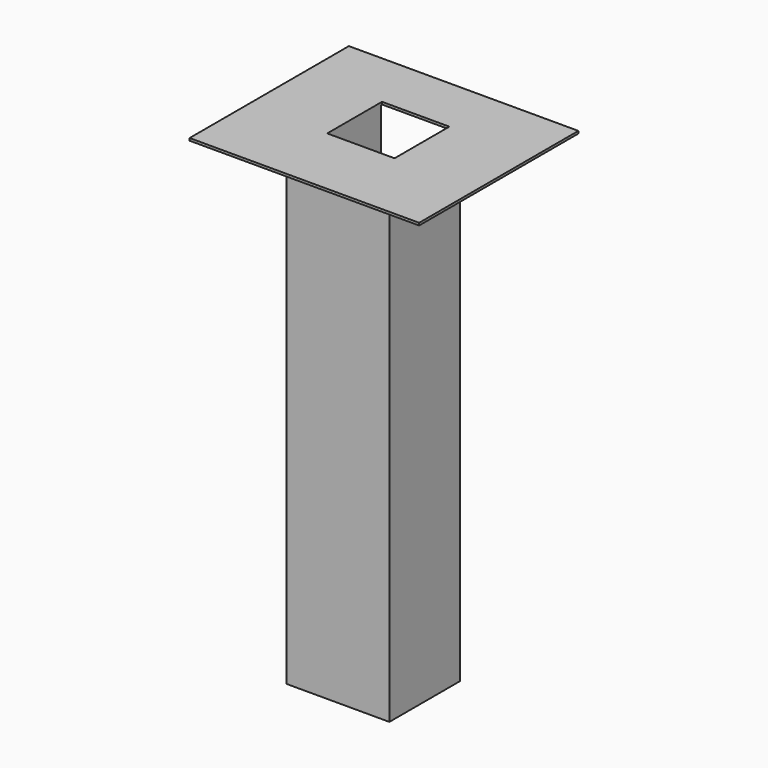
from build123d import *

# Parameters (mm, degrees)
F0_W     = 54.369731
F0_H     = 46.646759
F2_DEPTH = 254
F1_W     = 121.096216
F1_H     = 105.032436
F3_DEPTH = 1.27
F4_W     = 35.525674
F4_H     = 36.143513
F5_DEPTH = 127


with BuildPart() as f2:
    # F0 (on Top) → F2 (new body)
    with BuildSketch(Plane.XY):
        with Locations((-1.544595, -0.463377)):
            Rectangle(F0_W, F0_H)
    extrude(amount=-F2_DEPTH)

    # F1 (on Top) → F3 (join)
    with BuildSketch(Plane.XY):
        with Locations((2.78027, 1.235675)):
            Rectangle(F1_W, F1_H)
    extrude(amount=F3_DEPTH)

    # F4 (on face) → F5 (cut)
    with BuildSketch(Plane.XY.offset(1.27)):
        with Locations((1.699054, 5.40608)):
            Rectangle(F4_W, F4_H)
    extrude(amount=-F5_DEPTH, mode=Mode.SUBTRACT)


solid = f2.part
